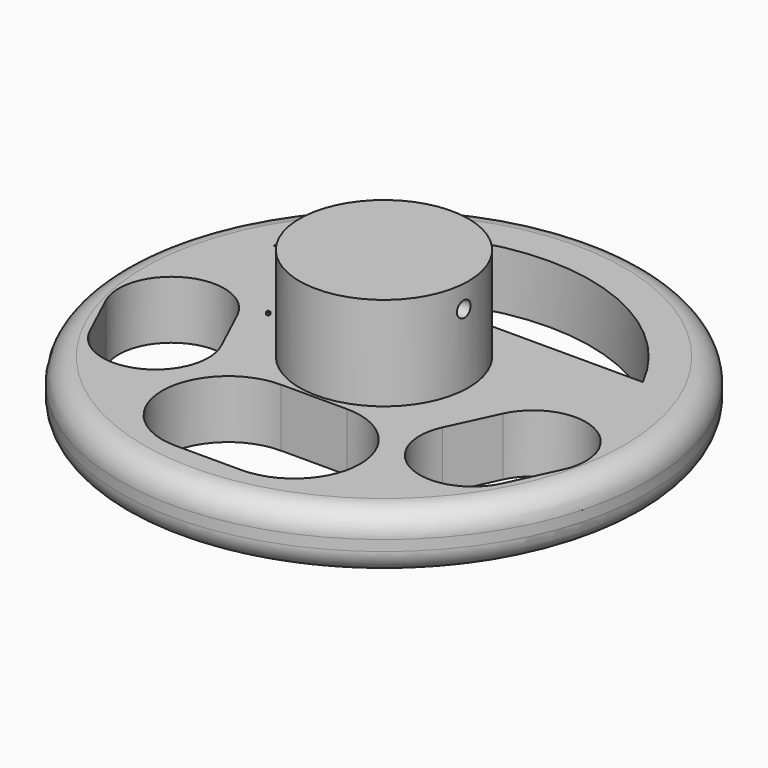
from build123d import *

# Parameters (mm, degrees)
SKETCH_R     = 100
PAD_DEPTH    = 22
SKETCH001_R  = 32
PAD001_DEPTH = 35.5
SKETCH002_W  = 1
SKETCH002_H  = 1
PAD002_DEPTH = 1
SKETCH003_R  = 3
POCKET_DEPTH = 143.942083
FILLET_R     = 9


with BuildPart() as part:
    # Sketch → Pad (new body)
    with BuildSketch(Plane.XY):
        Circle(SKETCH_R)
        with BuildLine():
            Line((-70, 35), (70, 35))
            ThreePointArc((70, 35), (0, 78.262379), (-70, 35))
        make_face(mode=Mode.SUBTRACT)
        with BuildLine():
            ThreePointArc((-78.126156, -41.578521), (-51.547635, -51.252311), (-41.873844, -24.673791))
            Line((-41.873844, -24.673791), (-50.326209, -6.547635))
            ThreePointArc((-50.326209, -6.547635), (-76.90473, 3.126156), (-86.578521, -23.452365))
            Line((-78.126156, -41.578521), (-86.578521, -23.452365))
        make_face(mode=Mode.SUBTRACT)
        with BuildLine():
            ThreePointArc((41.873844, -24.673791), (51.547635, -51.252311), (78.126156, -41.578521))
            Line((78.126156, -41.578521), (86.578521, -23.452365))
            ThreePointArc((86.578521, -23.452365), (76.90473, 3.126156), (50.326209, -6.547635))
            Line((41.873844, -24.673791), (50.326209, -6.547635))
        make_face(mode=Mode.SUBTRACT)
        with BuildLine():
            Line((12.5, -33.126156), (-12.5, -33.126156))
            ThreePointArc((-12.5, -33.126156), (-37.5, -58.126156), (-12.5, -83.126156))
            Line((12.5, -83.126156), (-12.5, -83.126156))
            ThreePointArc((12.5, -83.126156), (37.5, -58.126156), (12.5, -33.126156))
        make_face(mode=Mode.SUBTRACT)
    extrude(amount=PAD_DEPTH)

    # Sketch001 → Pad001 (new body)
    with BuildSketch(Plane.XY.offset(22)):
        Circle(SKETCH001_R)
    extrude(amount=PAD001_DEPTH)

    # Sketch002 → Pad002 (new body)
    with BuildSketch(Plane.XY.offset(22)):
        with Locations((-43.441083, -0.5)):
            Rectangle(SKETCH002_W, SKETCH002_H)
    extrude(amount=PAD002_DEPTH)

    # Sketch003 → Pocket (cut, through all)
    with BuildSketch(Plane(origin=(-43.941083, 0, 0), x_dir=(0, -1, 0), z_dir=(-1, 0, 0))):
        with Locations((2, 49)):
            Circle(SKETCH003_R)
    extrude(amount=-POCKET_DEPTH, mode=Mode.SUBTRACT)

    # Fillet
    fillet_edges = [part.edges().sort_by_distance(p)[0] for p in [
        (-100, 0, 22),
        (-100, 0, 0),
    ]]
    fillet(fillet_edges, radius=FILLET_R)


solid = part.part
